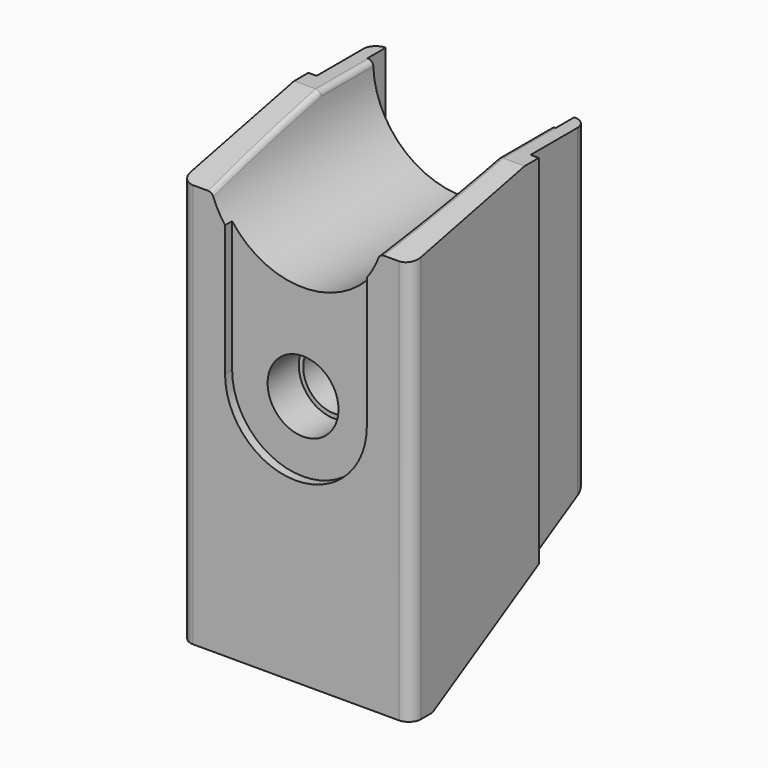
from build123d import *

# Parameters (mm, degrees)
F1_DEPTH  = 26
F2_R      = 10
F2_R_2    = 2
F3_DEPTH  = 26
F4_R      = 3.5
F4_R_2    = 2
F5_DEPTH  = 22.3
F6_R      = 4
F6_R_2    = 3.5
F7_DEPTH  = 5.4
F8_R      = 0.6
F9_W      = 0.9285709113
F9_H      = 8
F10_DEPTH = 61.5
F11_R     = 1.4
F12_W     = 21.2637362675
F12_H     = 42.3296708614
F13_DEPTH = 2.6
F15_DEPTH = 1


with BuildPart() as f1:
    # F0 (on Right) → F1 (new body)
    with BuildSketch(Plane.YZ):
        Polygon((-10, 28.8693108244), (-26, 25.475452911), (-26, -20.1306891756), (-23, -20.1306891756), (0, -6.8516329843), (0, 28.8693108244), align=None)
    extrude(amount=F1_DEPTH)

    # F2 (on face) → F3 (cut)
    with BuildSketch(Plane.XZ.offset(26)):
        with Locations((13, 28.6730788648)):
            Circle(F2_R)
        with Locations((13, 7.8693108244)):
            Circle(F2_R_2)
    extrude(amount=-F3_DEPTH, mode=Mode.SUBTRACT)

    # F4 (on face) → F5 (cut)
    with BuildSketch(Plane.XZ.offset(26)):
        with Locations((13, 7.8693108244)):
            Circle(F4_R)
        with Locations((13, 7.8693108244)):
            Circle(F4_R_2, mode=Mode.SUBTRACT)
    extrude(amount=-F5_DEPTH, mode=Mode.SUBTRACT)

    # F6 (on face) → F7 (cut)
    with BuildSketch(Plane.XZ.offset(26)):
        with Locations((13, 7.8693108244)):
            Circle(F6_R)
        with Locations((13, 7.8693108244)):
            Circle(F6_R_2, mode=Mode.SUBTRACT)
    extrude(amount=-F7_DEPTH, mode=Mode.SUBTRACT)

    # F8
    f8_edges = [f1.edges().sort_by_distance(p)[0] for p in [
        (3.113398, -18.00473, 27.171379),
        (22.999519, -10.462557, 28.771195),
        (22.871208, -18.467044, 27.073314),
        (3.001926, -5, 28.869311),
        (22.998074, -5, 28.869311),
    ]]
    fillet(f8_edges, radius=F8_R)

    # F9 (on face) → F10 (cut)
    with BuildSketch(Plane.XY.offset(28.8693108244)):
        with Locations((25.5357145444, -4)):
            Rectangle(F9_W, F9_H)
        with Locations((0.4642854556, -4)):
            Rectangle(F9_W, F9_H)
    extrude(amount=-F10_DEPTH, mode=Mode.SUBTRACT)

    # F11
    f11_edges = [f1.edges().sort_by_distance(p)[0] for p in [
        (0, -26, 2.672382),
        (26, -26, 2.672382),
        (0.928571, 0, 11.008839),
        (25.071429, 0, 11.008839),
    ]]
    fillet(f11_edges, radius=F11_R)

    # F12 (on face) → F13 (cut)
    with BuildSketch(Plane(origin=(0, 0, 0), x_dir=(-1, 0, 0), z_dir=(0, 1, 0))):
        with Locations((-12.960439045, 10.5494512245)):
            Rectangle(F12_W, F12_H)
    extrude(amount=-F13_DEPTH, mode=Mode.SUBTRACT)

    # F14 (on face) → F15 (cut)
    with BuildSketch(Plane.XZ.offset(26)):
        with BuildLine():
            ThreePointArc((5, 7.9120891169), (13, -0.0879108831), (21, 7.9120891169))
            ThreePointArc((21, 7.9120891169), (13, 15.9120891169), (5, 7.9120891169))
        make_face()
        with BuildLine():
            ThreePointArc((5, 7.9120891169), (13, 15.9120891169), (21, 7.9120891169))
            Line((21, 7.9120891169), (21, 25.7802214473))
            Line((21, 25.7802214473), (5, 25.7802214473))
            Line((5, 25.7802214473), (5, 7.9120891169))
        make_face()
    extrude(amount=-F15_DEPTH, mode=Mode.SUBTRACT)


solid = f1.part
